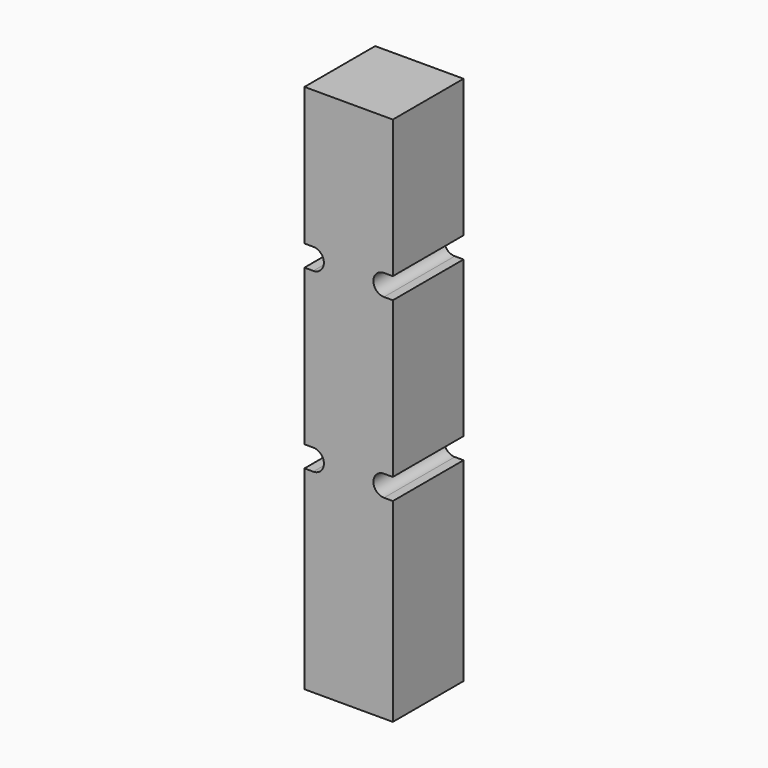
from build123d import *

# Parameters (mm, degrees)
F0_W     = 50
F0_H     = 50
F1_DEPTH = 300
F3_DEPTH = 50.001


with BuildPart() as f1:
    # F0 (on Top) → F1 (new body)
    with BuildSketch(Plane.XY):
        with Locations((25, 25)):
            Rectangle(F0_W, F0_H)
    extrude(amount=F1_DEPTH)

    # F2 (on face) → F3 (cut, through all)
    with BuildSketch(Plane(origin=(0, 50, 0), x_dir=(-1, 0, 0), z_dir=(0, 1, 0))):
        with BuildLine():
            Line((-50, 210), (-45, 210))
            ThreePointArc((-45, 210), (-39, 216), (-45, 222))
            Line((-45, 222), (-50, 222))
            Line((-50, 222), (-50, 210))
        make_face()
        with BuildLine():
            Line((0, 222), (-5, 222))
            ThreePointArc((-5, 222), (-11, 216), (-5, 210))
            Line((-5, 210), (0, 210))
            Line((0, 210), (0, 222))
        make_face()
        with BuildLine():
            Line((-50, 110), (-45, 110))
            ThreePointArc((-45, 110), (-39, 116), (-45, 122))
            Line((-45, 122), (-50, 122))
            Line((-50, 122), (-50, 110))
        make_face()
        with BuildLine():
            Line((0, 122), (-5, 122))
            ThreePointArc((-5, 122), (-11, 116), (-5, 110))
            Line((-5, 110), (0, 110))
            Line((0, 110), (0, 122))
        make_face()
    extrude(amount=-F3_DEPTH, mode=Mode.SUBTRACT)


solid = f1.part
